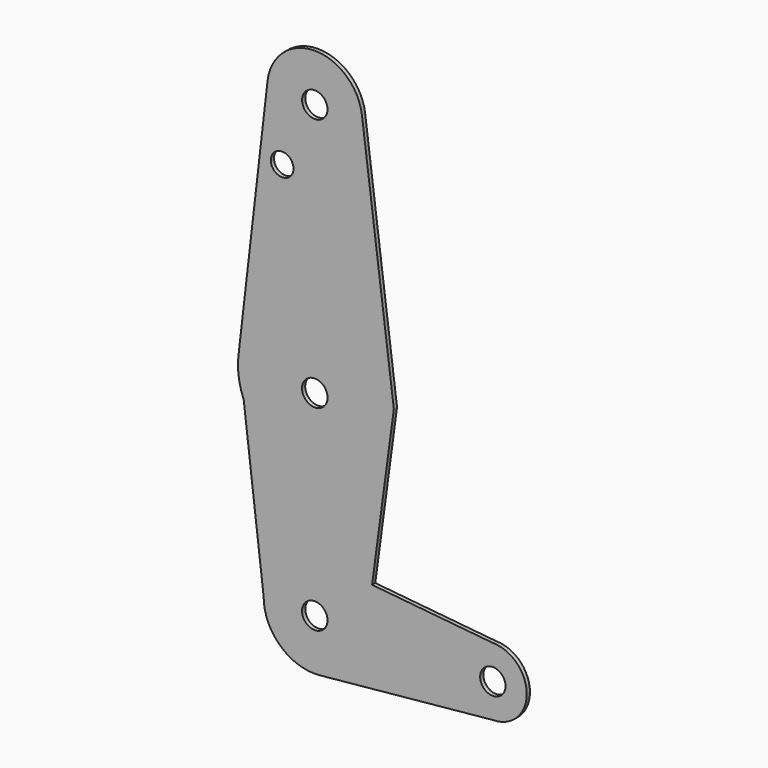
from build123d import *

# Parameters (mm, degrees)
F0_R     = 9.7055451223
F0_R_2   = 9.741664506
F0_R_3   = 9.6722617748
F0_R_4   = 8.6511366969
F0_R_5   = 9.6722557952
F1_DEPTH = 3.048


with BuildPart() as f1:
    # F0 (on Front) → F1 (new body)
    with BuildSketch(Plane.XZ):
        with BuildLine():
            ThreePointArc((3.8066026136, 38.808027463), (-26.1927234435, 28.8876177218), (-38.9942716181, 0))
            ThreePointArc((-38.9942716181, 0), (-26.1927225437, -28.8876185377), (3.8066050311, -38.8080272259))
            ThreePointArc((3.8066050311, -38.8080272259), (28.8876185377, -26.1927225437), (38.9942716181, 0))
            ThreePointArc((38.9942716181, 0), (28.8876177218, 26.1927234435), (3.8066026136, 38.808027463))
        make_face()
        Circle(F0_R, mode=Mode.SUBTRACT)
        with BuildLine():
            Line((-54.198741575, 127.3070507144), (-38.9942716181, 0))
            ThreePointArc((-38.9942716181, 0), (-26.1927234435, 28.8876177218), (3.8066026136, 38.808027463))
            Line((3.8066026136, 38.808027463), (43.6851335777, 34.8964187714))
            Line((43.6851335777, 34.8964187714), (58.0401596038, 141.6868133715))
            ThreePointArc((58.0401596038, 141.6868133715), (7.4420102551, 91.4013122397), (-54.198741575, 127.3070507144))
        make_face()
        with BuildLine():
            ThreePointArc((38.9942716181, 0), (28.8876185377, -26.1927225437), (3.8066050311, -38.8080272259))
            Line((3.8066050311, -38.8080272259), (135.7471495867, -25.8662320197))
            ThreePointArc((135.7471495867, -25.8662320197), (109.880917567, 0), (135.7471495867, 25.8662320197))
            Line((135.7471495867, 25.8662320197), (43.6851335777, 34.8964187714))
            Line((43.6851335777, 34.8964187714), (38.9942716181, 0))
        make_face()
        with BuildLine():
            Line((43.6851335777, 34.8964187714), (3.8066026136, 38.808027463))
            ThreePointArc((3.8066026136, 38.808027463), (28.8876177218, 26.1927234435), (38.9942716181, 0))
            Line((38.9942716181, 0), (43.6851335777, 34.8964187714))
        make_face()
        with BuildLine():
            Line((-57.8981825428, 158.2824757208), (-54.198741575, 127.3070507144))
            ThreePointArc((-54.198741575, 127.3070507144), (7.4420102551, 91.4013122397), (58.0401596038, 141.6868133715))
            ThreePointArc((58.0401596038, 141.6868133715), (58.4315346455, 145.5790412778), (58.5621873175, 149.4887142024))
            ThreePointArc((58.5621873175, 149.4887142024), (4.409397464, 207.8846643822), (-57.8981825428, 158.2824757208))
        make_face()
        with Locations((0, 149.4887142024)):
            Circle(F0_R_2, mode=Mode.SUBTRACT)
        with BuildLine():
            ThreePointArc((-57.8981825428, 158.2824757208), (-58.1489409856, 142.5438999028), (-54.198741575, 127.3070507144))
            Line((-54.198741575, 127.3070507144), (-57.8981825428, 158.2824757208))
        make_face()
        with BuildLine():
            ThreePointArc((135.7471495867, 25.8662320197), (109.880917567, 0), (135.7471495867, -25.8662320197))
            ThreePointArc((135.7471495867, -25.8662320197), (154.0373376515, -18.2901880649), (161.6133816064, 0))
            ThreePointArc((161.6133816064, 0), (154.0373376515, 18.2901880649), (135.7471495867, 25.8662320197))
        make_face()
        with Locations((135.7471495867, 0)):
            Circle(F0_R_3, mode=Mode.SUBTRACT)
        with BuildLine():
            Line((-36.0279004475, 347.1542968414), (-57.8981825428, 158.2824757208))
            ThreePointArc((-57.8981825428, 158.2824757208), (4.409397464, 207.8846643822), (58.5621873175, 149.4887142024))
            ThreePointArc((58.5621873175, 149.4887142024), (58.4315346455, 145.5790412778), (58.0401596038, 141.6868133715))
            Line((58.0401596038, 141.6868133715), (60.2709891258, 158.2824757208))
            Line((60.2709891258, 158.2824757208), (35.9735681678, 347.599410979))
            ThreePointArc((35.9735681678, 347.599410979), (36.1947916427, 345.2956505186), (36.2686330263, 342.9824709892))
            ThreePointArc((36.2686330263, 342.9824709892), (-2.0893828703, 306.7740711238), (-36.0279004475, 347.1542968414))
        make_face()
        with Locations((-24.9003618956, 294.7882115841)):
            Circle(F0_R_4, mode=Mode.SUBTRACT)
        with BuildLine():
            ThreePointArc((35.9735681678, 347.599410979), (-0.2242089383, 379.2504109906), (-36.0279004475, 347.1542968414))
            ThreePointArc((-36.0279004475, 347.1542968414), (-2.0893828703, 306.7740711238), (36.2686330263, 342.9824709892))
            ThreePointArc((36.2686330263, 342.9824709892), (36.1947916427, 345.2956505186), (35.9735681678, 347.599410979))
        make_face()
        with Locations((0, 342.9824709892)):
            Circle(F0_R_5, mode=Mode.SUBTRACT)
    extrude(amount=F1_DEPTH)


solid = f1.part
